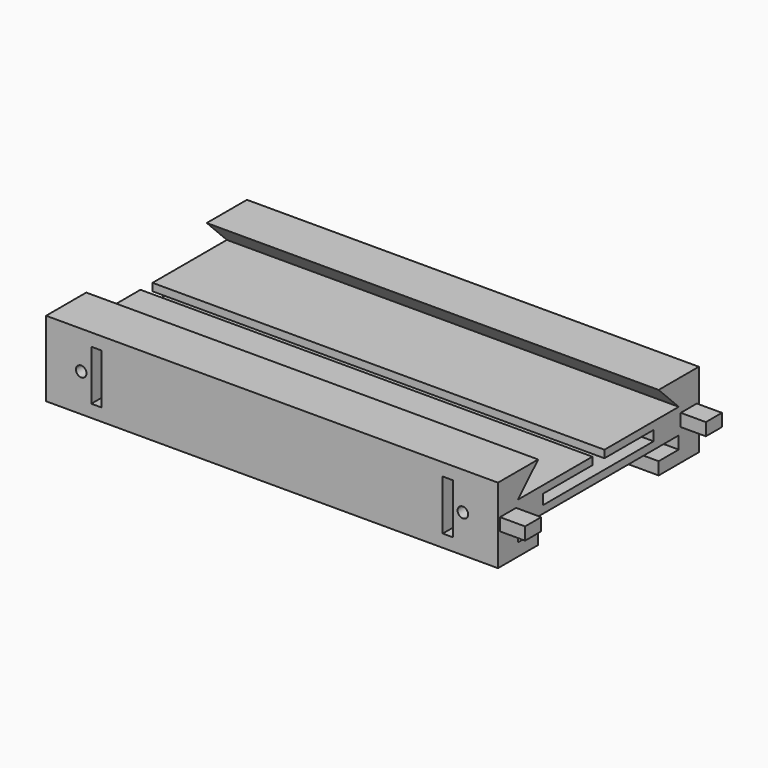
from build123d import *

# Parameters (mm, degrees)
F0_W      = 180
F0_H      = 100
F1_DEPTH  = 30
F3_DEPTH  = 180
F4_W      = 8
F4_H      = 5
F5_DEPTH  = 10
F6_W      = 8.3
F6_H      = 5.3
F7_DEPTH  = 10.2
F8_W      = 4
F8_H      = 20
F9_DEPTH  = 5
F10_W     = 4
F10_H     = 20
F11_DEPTH = 5
F12_D     = 4.2
F12_DEPTH = 10
F12_TIP   = 1.2618073
F13_D     = 4.2
F13_DEPTH = 10
F13_TIP   = 1.2618073
F15_D     = 4.2
F15_DEPTH = 7.6
F15_TIP   = 1.2618073


with BuildPart() as f1:
    # F0 (on Top) → F1 (new body)
    with BuildSketch(Plane.XY):
        Rectangle(F0_W, F0_H)
    extrude(amount=F1_DEPTH)

    # F2 (on face) → F3 (cut)
    with BuildSketch(Plane.YZ.offset(90)):
        Polygon((30, 30), (-30, 30), (-40, 20), (-3, 20), (3, 20), (40, 20), align=None)
        Polygon((-30, 5), (-30, 0), (30, 0), (30, 5), (40, 5), (40, 10), (-40, 10), (-40, 5), align=None)
        Polygon((3, 20), (-3, 20), (-3, 17), (-27.5, 17), (-27.5, 13), (27.5, 13), (27.5, 17), (3, 17), align=None)
    extrude(amount=-F3_DEPTH, mode=Mode.SUBTRACT)

    # F4 (on face) → F5 (join)
    with BuildSketch(Plane.YZ.offset(90)):
        with Locations((-45, 15)):
            Rectangle(F4_W, F4_H)
        with Locations((45, 15)):
            Rectangle(F4_W, F4_H)
    extrude(amount=F5_DEPTH)

    # F6 (on face) → F7 (cut)
    with BuildSketch(Plane(origin=(-90, 0, 0), x_dir=(0, -1, 0), z_dir=(-1, 0, 0))):
        with Locations((-45, 15)):
            Rectangle(F6_W, F6_H)
        with Locations((45, 15)):
            Rectangle(F6_W, F6_H)
    extrude(amount=-F7_DEPTH, mode=Mode.SUBTRACT)

    # F8 (on face) → F9 (cut)
    with BuildSketch(Plane.XZ.offset(50)):
        with Locations((-70, 15)):
            Rectangle(F8_W, F8_H)
        with Locations((70, 15)):
            Rectangle(F8_W, F8_H)
    extrude(amount=-F9_DEPTH, mode=Mode.SUBTRACT)

    # F10 (on face) → F11 (cut)
    with BuildSketch(Plane(origin=(0, 50, 0), x_dir=(-1, 0, 0), z_dir=(0, 1, 0))):
        with Locations((70, 15)):
            Rectangle(F10_W, F10_H)
        with Locations((-70, 15)):
            Rectangle(F10_W, F10_H)
    extrude(amount=-F11_DEPTH, mode=Mode.SUBTRACT)

    # F12
    with Locations(Plane.XZ.offset(50)):
        with Locations((-76, 15), (76, 15)):
            Hole(F12_D / 2, depth=F12_DEPTH)
            with Locations((0, 0, -(F12_DEPTH + F12_TIP / 2))):  # 118° drill point
                Cone(0, F12_D / 2, F12_TIP, mode=Mode.SUBTRACT)

    # F13
    with Locations(Plane(origin=(0, 50, 0), x_dir=(-1, 0, 0), z_dir=(0, 1, 0))):
        with Locations((-76, 15), (76, 15)):
            Hole(F13_D / 2, depth=F13_DEPTH)
            with Locations((0, 0, -(F13_DEPTH + F13_TIP / 2))):  # 118° drill point
                Cone(0, F13_D / 2, F13_TIP, mode=Mode.SUBTRACT)

    # F15
    with Locations(Plane(origin=(0, 0, 0), x_dir=(1, 0, 0), z_dir=(0, 0, -1))):
        with Locations((-40, 45), (40, 45), (40, -45), (-40, -45)):
            Hole(F15_D / 2, depth=F15_DEPTH)
            with Locations((0, 0, -(F15_DEPTH + F15_TIP / 2))):  # 118° drill point
                Cone(0, F15_D / 2, F15_TIP, mode=Mode.SUBTRACT)


solid = f1.part
